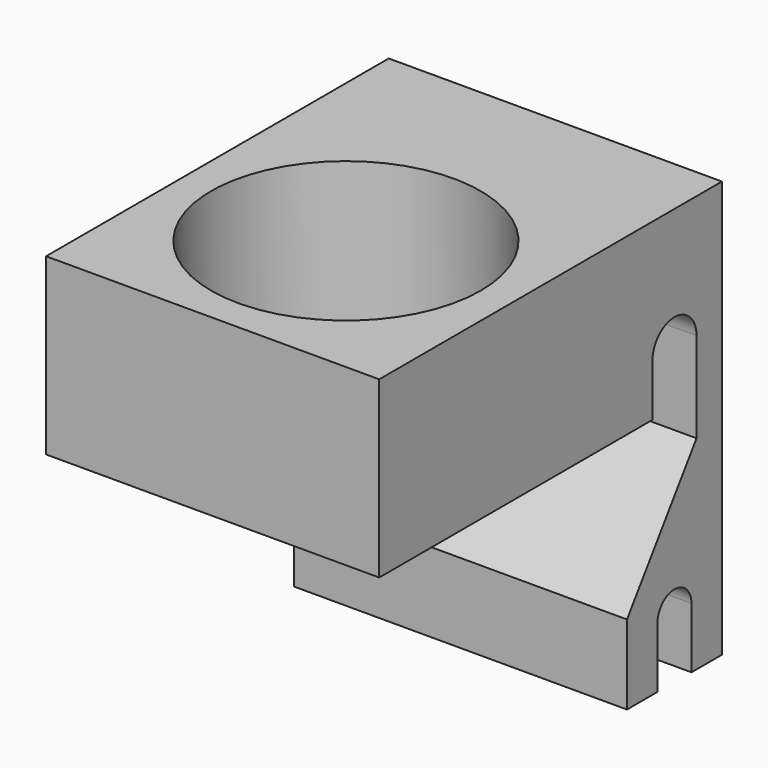
from build123d import *

# Parameters (mm, degrees)
F1_DEPTH = 13.335
F2_R     = 10.795
F3_DEPTH = 33.352194


with BuildPart() as f1:
    # F0 (on Right) → F1 (new body, symmetric)
    with BuildSketch(Plane.YZ):
        with BuildLine():
            Line((3.048, 0), (-31.242, 0))
            Line((-31.242, 0), (-31.242, -13.97))
            Line((-31.242, -13.97), (-3.9116, -13.97))
            Line((-3.9116, -13.97), (-3.9116, -9.8298))
            ThreePointArc((-3.9116, -9.8298), (-1.7018, -7.62), (0.508, -9.8298))
            Line((0.508, -9.8298), (0.508, -17.061855))
            Line((0.508, -17.061855), (-6.4516, -27.001194))
            Line((-6.4516, -27.001194), (-6.4516, -33.351194))
            Line((-6.4516, -33.351194), (-3.4036, -33.351194))
            Line((-3.4036, -33.351194), (-3.4036, -28.4988))
            ThreePointArc((-3.4036, -28.4988), (-1.7018, -26.797), (0, -28.4988))
            Line((0, -28.4988), (0, -33.351194))
            Line((0, -33.351194), (3.048, -33.351194))
            Line((3.048, -33.351194), (3.048, 0))
        make_face()
    extrude(amount=F1_DEPTH, both=True)

    # F2 (on Top) → F3 (cut, through all)
    with BuildSketch(Plane.XY):
        with Locations((0, -17.907)):
            Circle(F2_R)
    extrude(amount=-F3_DEPTH, mode=Mode.SUBTRACT)


solid = f1.part
